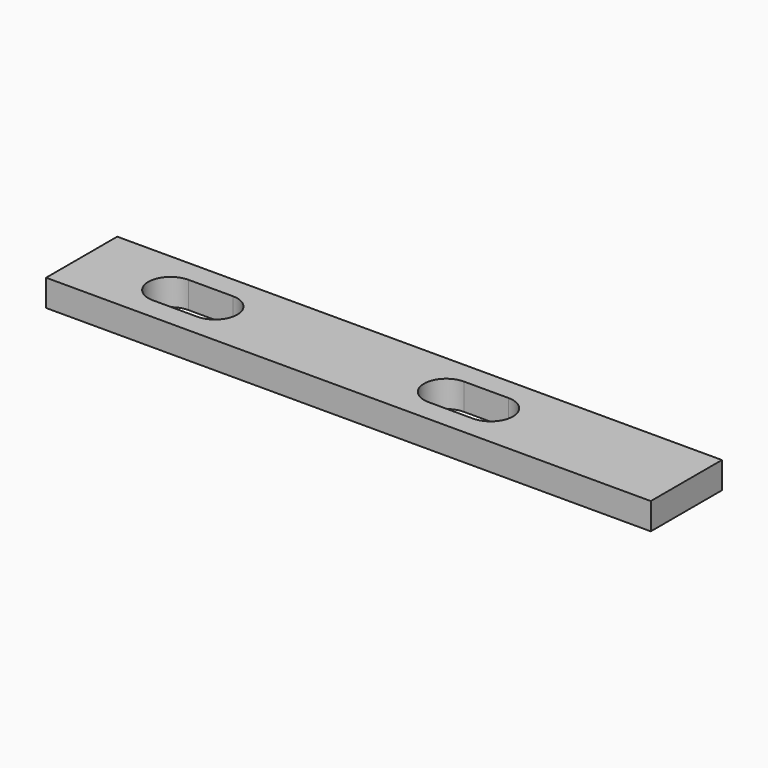
from build123d import *

# Parameters (mm, degrees)
SKETCH_W        = 68
SKETCH_H        = 10
PAD_DEPTH       = 3
POCKET001_DEPTH = 3.001


with BuildPart() as part:
    # Sketch → Pad (new body)
    with BuildSketch(Plane.XY):
        with Locations((34, 5)):
            Rectangle(SKETCH_W, SKETCH_H)
    extrude(amount=PAD_DEPTH)

    # Sketch002 → Pocket001 (cut, through all)
    with BuildSketch(Plane.XY.offset(3)):
        with BuildLine():
            ThreePointArc((10, 7.5), (7.5, 5), (10, 2.5))
            Line((10, 2.5), (15, 2.5))
            ThreePointArc((15, 2.5), (17.5, 5), (15, 7.5))
            Line((10, 7.5), (15, 7.5))
        make_face()
        with BuildLine():
            ThreePointArc((46, 2.5), (48.5, 5), (46, 7.5))
            Line((46, 7.5), (41, 7.5))
            ThreePointArc((41, 7.5), (38.5, 5), (41, 2.5))
            Line((46, 2.5), (41, 2.5))
        make_face()
    extrude(amount=-POCKET001_DEPTH, mode=Mode.SUBTRACT)


solid = part.part
